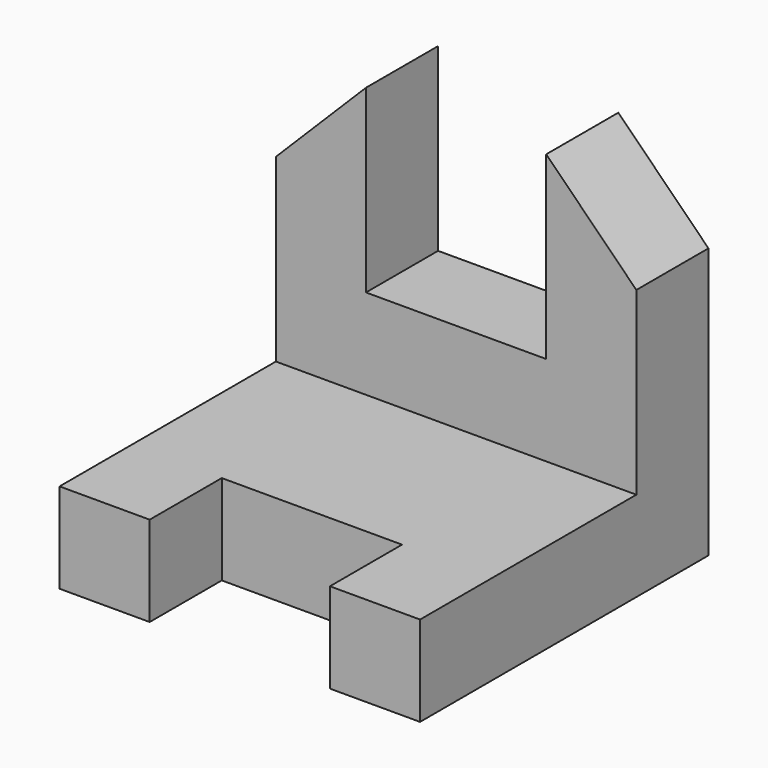
from build123d import *

# Parameters (mm, degrees)
F0_W      = 101.6
F0_H      = 101.6
F1_DEPTH  = 101.6
F2_W      = 76.2
F2_H      = 76.2
F3_DEPTH  = 101.6
F4_W      = 50.8
F4_H      = 25.4
F5_DEPTH  = 25.4
F6_W      = 50.8
F6_H      = 50.8
F7_DEPTH  = 25.4
F9_DEPTH  = 25.4
F11_DEPTH = 25.4


with BuildPart() as f1:
    # F0 (on Front) → F1 (new body)
    with BuildSketch(Plane.XZ):
        with Locations((50.8, 50.8)):
            Rectangle(F0_W, F0_H)
    extrude(amount=-F1_DEPTH)

    # F2 (on face) → F3 (cut)
    with BuildSketch(Plane.YZ.offset(101.6)):
        with Locations((38.1, 63.5)):
            Rectangle(F2_W, F2_H)
    extrude(amount=-F3_DEPTH, mode=Mode.SUBTRACT)

    # F4 (on face) → F5 (cut)
    with BuildSketch(Plane.XZ):
        with Locations((50.8, 12.7)):
            Rectangle(F4_W, F4_H)
    extrude(amount=-F5_DEPTH, mode=Mode.SUBTRACT)

    # F6 (on face) → F7 (cut)
    with BuildSketch(Plane.XZ.offset(-76.2)):
        with Locations((50.8, 76.2)):
            Rectangle(F6_W, F6_H)
    extrude(amount=-F7_DEPTH, mode=Mode.SUBTRACT)

    # F8 (on face) → F9 (cut)
    with BuildSketch(Plane.XZ.offset(-76.2)):
        Polygon((0, 76.2), (25.4, 101.6), (0, 101.6), align=None)
    extrude(amount=-F9_DEPTH, mode=Mode.SUBTRACT)

    # F10 (on face) → F11 (cut)
    with BuildSketch(Plane.XZ.offset(-76.2)):
        Polygon((101.6, 101.6), (76.2, 101.6), (101.6, 76.2), align=None)
    extrude(amount=-F11_DEPTH, mode=Mode.SUBTRACT)


solid = f1.part
